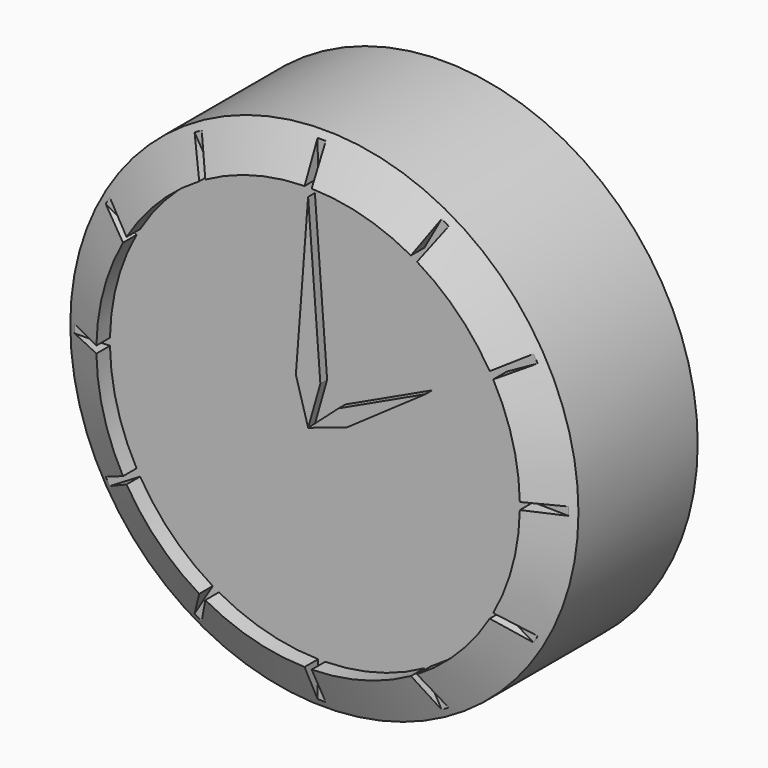
from build123d import *

# Parameters (mm, degrees)
F0_R     = 38.1
F1_DEPTH = 25.4
F3_SIZE2 = 6.35
F3_SIZE  = 3.048
F4_DEPTH = 2.54
F6_DEPTH = 1.27


with BuildPart() as f1:
    # F0 (on Front) → F1 (new body)
    with BuildSketch(Plane.XZ):
        Circle(F0_R)
    extrude(amount=F1_DEPTH)

    # F3
    f3_edges = [f1.edges().sort_by_distance(p)[0] for p in [
        (-38.1, -25.4, 0),
    ]]
    f3_side = f1.faces().sort_by_distance((-38.1, -12.7, 0))[0]
    chamfer(f3_edges, length=F3_SIZE, length2=F3_SIZE2, reference=f3_side)

    # F2 (on face) → F4 (cut)
    with BuildSketch(Plane.XZ.offset(25.4)):
        with BuildLine():
            ThreePointArc((31.7455903799, -0.5291421686), (31.7488975758, -0.264580271), (31.75, 0))
            ThreePointArc((31.75, 0), (31.7488975758, 0.264580271), (31.7455903799, 0.5291421686))
            ThreePointArc((31.7455903799, 0.5291421686), (30.6681449847, 8.217504682), (27.7570588114, 15.4145446297))
            ThreePointArc((27.7570588114, 15.4145446297), (27.4963065702, 15.875), (27.2279166428, 16.3310457501))
            ThreePointArc((27.2279166428, 16.3310457501), (22.4506403027, 22.4506403027), (16.3310457501, 27.2279166428))
            ThreePointArc((16.3310457501, 27.2279166428), (15.875, 27.4963065702), (15.4145446297, 27.7570588114))
            ThreePointArc((15.4145446297, 27.7570588114), (8.217504682, 30.6681449847), (0.5291421686, 31.7455903799))
            ThreePointArc((0.5291421686, 31.7455903799), (0, 31.75), (-0.5291421686, 31.7455903799))
            ThreePointArc((-0.5291421686, 31.7455903799), (-8.217504682, 30.6681449847), (-15.4145446297, 27.7570588114))
            ThreePointArc((-15.4145446297, 27.7570588114), (-15.875, 27.4963065702), (-16.3310457501, 27.2279166428))
            ThreePointArc((-16.3310457501, 27.2279166428), (-22.4506403027, 22.4506403027), (-27.2279166428, 16.3310457501))
            ThreePointArc((-27.2279166428, 16.3310457501), (-27.4963065702, 15.875), (-27.7570588114, 15.4145446297))
            ThreePointArc((-27.7570588114, 15.4145446297), (-30.6681449847, 8.217504682), (-31.7455903799, 0.5291421686))
            ThreePointArc((-31.7455903799, 0.5291421686), (-31.75, 0), (-31.7455903799, -0.5291421686))
            ThreePointArc((-31.7455903799, -0.5291421686), (-30.6681449847, -8.217504682), (-27.7570588114, -15.4145446297))
            ThreePointArc((-27.7570588114, -15.4145446297), (-27.4963065702, -15.875), (-27.2279166428, -16.3310457501))
            ThreePointArc((-27.2279166428, -16.3310457501), (-22.4506403027, -22.4506403027), (-16.3310457501, -27.2279166428))
            ThreePointArc((-16.3310457501, -27.2279166428), (-15.875, -27.4963065702), (-15.4145446297, -27.7570588114))
            ThreePointArc((-15.4145446297, -27.7570588114), (-8.217504682, -30.6681449847), (-0.5291421686, -31.7455903799))
            ThreePointArc((-0.5291421686, -31.7455903799), (0, -31.75), (0.5291421686, -31.7455903799))
            ThreePointArc((0.5291421686, -31.7455903799), (8.217504682, -30.6681449847), (15.4145446297, -27.7570588114))
            ThreePointArc((15.4145446297, -27.7570588114), (15.875, -27.4963065702), (16.3310457501, -27.2279166428))
            ThreePointArc((16.3310457501, -27.2279166428), (22.4506403027, -22.4506403027), (27.2279166428, -16.3310457501))
            ThreePointArc((27.2279166428, -16.3310457501), (27.4963065702, -15.875), (27.7570588114, -15.4145446297))
            ThreePointArc((27.7570588114, -15.4145446297), (30.6681449847, -8.217504682), (31.7455903799, -0.5291421686))
        make_face()
        with BuildLine():
            ThreePointArc((31.7455903799, 0.5291421686), (31.7488975758, 0.264580271), (31.75, 0))
            ThreePointArc((31.75, 0), (31.7488975758, -0.264580271), (31.7455903799, -0.5291421686))
            Line((31.7455903799, -0.5291421686), (38.0947084558, -0.6349706023))
            ThreePointArc((38.0947084558, -0.6349706023), (38.1, 0), (38.0947084558, 0.6349706023))
            Line((38.0947084558, 0.6349706023), (31.7455903799, 0.5291421686))
        make_face()
        with BuildLine():
            ThreePointArc((27.2279166428, 16.3310457501), (27.4963065702, 15.875), (27.7570588114, 15.4145446297))
            Line((27.7570588114, 15.4145446297), (33.3084705736, 18.4974535557))
            ThreePointArc((33.3084705736, 18.4974535557), (32.9955678842, 19.05), (32.6734999714, 19.5972549001))
            Line((32.6734999714, 19.5972549001), (27.2279166428, 16.3310457501))
        make_face()
        with BuildLine():
            Line((33.3084705736, -18.4974535557), (27.7570588114, -15.4145446297))
            ThreePointArc((27.7570588114, -15.4145446297), (27.4963065702, -15.875), (27.2279166428, -16.3310457501))
            Line((27.2279166428, -16.3310457501), (32.6734999714, -19.5972549001))
            ThreePointArc((32.6734999714, -19.5972549001), (32.9955678842, -19.05), (33.3084705736, -18.4974535557))
        make_face()
        with BuildLine():
            ThreePointArc((15.4145446297, 27.7570588114), (15.875, 27.4963065702), (16.3310457501, 27.2279166428))
            Line((16.3310457501, 27.2279166428), (19.5972549001, 32.6734999714))
            ThreePointArc((19.5972549001, 32.6734999714), (19.05, 32.9955678842), (18.4974535557, 33.3084705736))
            Line((18.4974535557, 33.3084705736), (15.4145446297, 27.7570588114))
        make_face()
        with BuildLine():
            Line((19.5972549001, -32.6734999714), (16.3310457501, -27.2279166428))
            ThreePointArc((16.3310457501, -27.2279166428), (15.875, -27.4963065702), (15.4145446297, -27.7570588114))
            Line((15.4145446297, -27.7570588114), (18.4974535557, -33.3084705736))
            ThreePointArc((18.4974535557, -33.3084705736), (19.05, -32.9955678842), (19.5972549001, -32.6734999714))
        make_face()
        with BuildLine():
            ThreePointArc((-0.5291421686, 31.7455903799), (0, 31.75), (0.5291421686, 31.7455903799))
            Line((0.5291421686, 31.7455903799), (0.6349706023, 38.0947084558))
            ThreePointArc((0.6349706023, 38.0947084558), (0, 38.1), (-0.6349706023, 38.0947084558))
            Line((-0.6349706023, 38.0947084558), (-0.5291421686, 31.7455903799))
        make_face()
        with BuildLine():
            Line((0.6349706023, -38.0947084558), (0.5291421686, -31.7455903799))
            ThreePointArc((0.5291421686, -31.7455903799), (0, -31.75), (-0.5291421686, -31.7455903799))
            Line((-0.5291421686, -31.7455903799), (-0.6349706023, -38.0947084558))
            ThreePointArc((-0.6349706023, -38.0947084558), (0, -38.1), (0.6349706023, -38.0947084558))
        make_face()
        with BuildLine():
            ThreePointArc((-16.3310457501, 27.2279166428), (-15.875, 27.4963065702), (-15.4145446297, 27.7570588114))
            Line((-15.4145446297, 27.7570588114), (-18.4974535557, 33.3084705736))
            ThreePointArc((-18.4974535557, 33.3084705736), (-19.05, 32.9955678842), (-19.5972549001, 32.6734999714))
            Line((-19.5972549001, 32.6734999714), (-16.3310457501, 27.2279166428))
        make_face()
        with BuildLine():
            Line((-18.4974535557, -33.3084705736), (-15.4145446297, -27.7570588114))
            ThreePointArc((-15.4145446297, -27.7570588114), (-15.875, -27.4963065702), (-16.3310457501, -27.2279166428))
            Line((-16.3310457501, -27.2279166428), (-19.5972549001, -32.6734999714))
            ThreePointArc((-19.5972549001, -32.6734999714), (-19.05, -32.9955678842), (-18.4974535557, -33.3084705736))
        make_face()
        with BuildLine():
            ThreePointArc((-27.7570588114, 15.4145446297), (-27.4963065702, 15.875), (-27.2279166428, 16.3310457501))
            Line((-27.2279166428, 16.3310457501), (-32.6734999714, 19.5972549001))
            ThreePointArc((-32.6734999714, 19.5972549001), (-32.9955678842, 19.05), (-33.3084705736, 18.4974535557))
            Line((-33.3084705736, 18.4974535557), (-27.7570588114, 15.4145446297))
        make_face()
        with BuildLine():
            Line((-32.6734999714, -19.5972549001), (-27.2279166428, -16.3310457501))
            ThreePointArc((-27.2279166428, -16.3310457501), (-27.4963065702, -15.875), (-27.7570588114, -15.4145446297))
            Line((-27.7570588114, -15.4145446297), (-33.3084705736, -18.4974535557))
            ThreePointArc((-33.3084705736, -18.4974535557), (-32.9955678842, -19.05), (-32.6734999714, -19.5972549001))
        make_face()
        with BuildLine():
            ThreePointArc((-31.7455903799, -0.5291421686), (-31.75, 0), (-31.7455903799, 0.5291421686))
            Line((-31.7455903799, 0.5291421686), (-38.0947084558, 0.6349706023))
            ThreePointArc((-38.0947084558, 0.6349706023), (-38.1, 0), (-38.0947084558, -0.6349706023))
            Line((-38.0947084558, -0.6349706023), (-31.7455903799, -0.5291421686))
        make_face()
    extrude(amount=-F4_DEPTH, mode=Mode.SUBTRACT)


with BuildPart() as f6:
    # F5 (on face) → F6 (new body)
    with BuildSketch(Plane.XZ.offset(25.4)):
        Polygon((1.8360100221, 6.4122295007), (0, 30.48), (-1.8360100221, 6.4122295007), (0, 0), align=None)
    extrude(amount=-F6_DEPTH)

    # F5 (on face) → F6, piece 2 (join)
    with BuildSketch(Plane.XZ.offset(25.4)):
        Polygon((4.5823035762, 4.0588481352), (0, 0), (5.8062173832, 1.9389672372), (17.5976362049, 10.16), align=None)
    extrude(amount=-F6_DEPTH)


solid = Compound([f1.part, f6.part])
